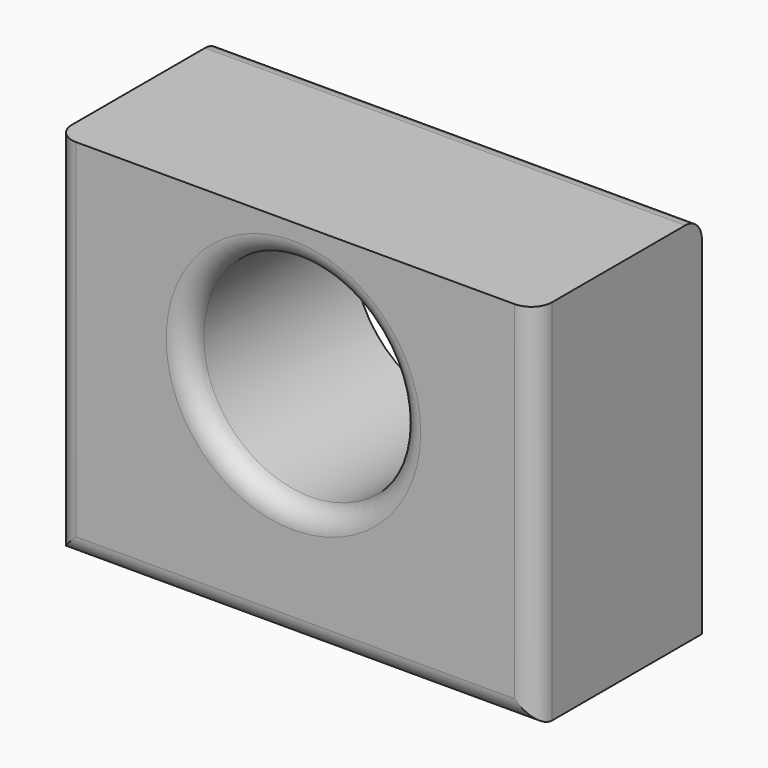
from build123d import *

# Parameters (mm, degrees)
F0_W     = 117.274408
F0_H     = 89.918245
F0_R     = 26.007652
F1_DEPTH = 50.8
F2_R     = 5.08
F3_R     = 5.08
F4_R     = 5.08


with BuildPart() as f1:
    # F0 (on Front) → F1 (new body)
    with BuildSketch(Plane.XZ):
        with Locations((0.464147, -9.922528)):
            Rectangle(F0_W, F0_H)
        Circle(F0_R, mode=Mode.SUBTRACT)
    extrude(amount=F1_DEPTH)

    # F2
    f2_edges = [f1.edges().sort_by_distance(p)[0] for p in [
        (0.464147, 0, 35.036594),
    ]]
    fillet(f2_edges, radius=F2_R)

    # F3
    f3_edges = [f1.edges().sort_by_distance(p)[0] for p in [
        (0.464147, -50.8, -54.881651),
        (-58.173057, -50.8, -9.922529),
        (59.101351, -50.8, -9.922529),
    ]]
    fillet(f3_edges, radius=F3_R)

    # F4
    f4_edges = [f1.edges().sort_by_distance(p)[0] for p in [
        (-26.007652, -50.8, 0),
    ]]
    fillet(f4_edges, radius=F4_R)


solid = f1.part
